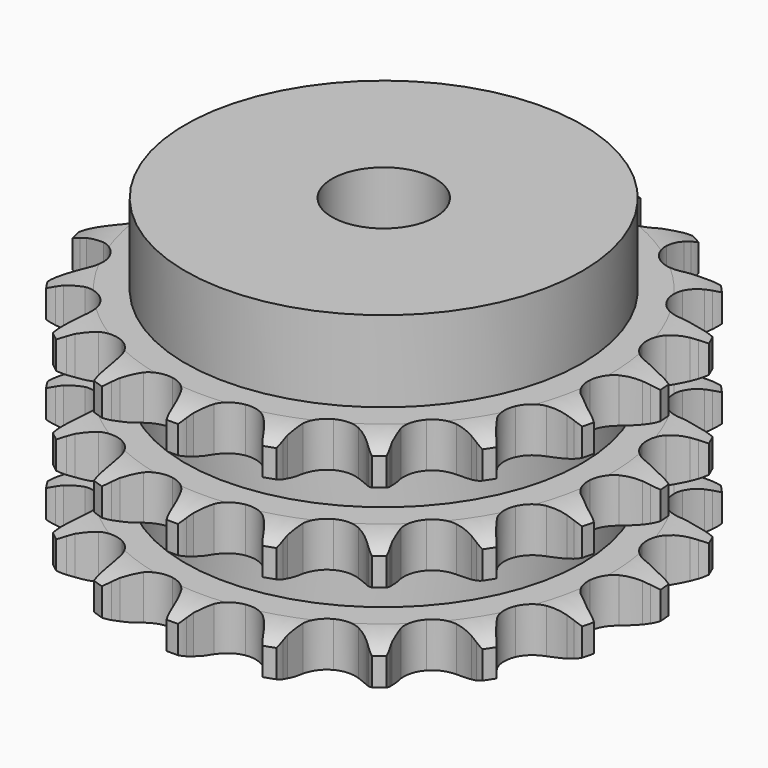
from build123d import *

# Parameters (mm, degrees)
PAD_DEPTH         = 25.6
SKETCH001_R       = 23
PAD001_DEPTH      = 35
SKETCH002_R       = 6
POCKET_DEPTH      = 0.001
POCKET_DEPTH_BACK = 35.001


with BuildPart() as part:
    # Sprocket → Pad (new body)
    with BuildSketch(Plane.XY):
        with BuildLine():
            ThreePointArc((-5.227902, 31.3291), (-4.494074, 30.495711), (-3.952481, 29.52632))
            Line((-3.952481, 29.52632), (-3.648014, 28.812689))
            ThreePointArc((-3.648014, 28.812689), (-3.155091, 27.839756), (-2.538979, 26.93977))
            ThreePointArc((-2.538979, 26.93977), (-1.411489, 26.030599), (0, 25.705755))
            ThreePointArc((0, 25.705755), (1.411489, 26.030599), (2.538979, 26.93977))
            ThreePointArc((2.538979, 26.93977), (3.155091, 27.839756), (3.648014, 28.812689))
            Line((3.648014, 28.812689), (3.952481, 29.52632))
            ThreePointArc((3.952481, 29.52632), (4.494074, 30.495711), (5.227902, 31.3291))
            ThreePointArc((5.227902, 31.3291), (5.651368, 30.302593), (5.848856, 29.209872))
            Line((5.848856, 29.209872), (5.90511, 28.436046))
            ThreePointArc((5.90511, 28.436046), (6.055414, 27.355778), (6.345919, 26.304504))
            ThreePointArc((6.345919, 26.304504), (7.117111, 25.078499), (8.346645, 24.312946))
            ThreePointArc((8.346645, 24.312946), (9.787132, 24.161879), (11.148739, 24.655694))
            Line((11.148739, 24.655694), (12.805819, 26.067029))
            ThreePointArc((12.805819, 26.067029), (13.058934, 26.361151), (13.325505, 26.643134))
            ThreePointArc((13.325505, 26.643134), (14.152514, 27.384146), (15.117182, 27.934106))
            ThreePointArc((15.117182, 27.934106), (15.184397, 26.825718), (15.016378, 25.72808))
            Line((15.016378, 25.72808), (14.818324, 24.977916))
            ThreePointArc((14.818324, 24.977916), (14.609722, 23.907377), (14.543138, 22.818737))
            ThreePointArc((14.543138, 22.818737), (14.874461, 21.408755), (15.788801, 20.285452))
            ThreePointArc((15.788801, 20.285452), (17.102188, 19.674845), (18.55036, 19.699791))
            Line((18.55036, 19.699791), (20.575915, 20.496603))
            ThreePointArc((20.575915, 20.496603), (20.910817, 20.692602), (21.254504, 20.872751))
            ThreePointArc((21.254504, 20.872751), (22.277309, 21.305083), (23.368281, 21.512018))
            ThreePointArc((23.368281, 21.512018), (23.071961, 20.441861), (22.556643, 19.458251))
            Line((22.556643, 19.458251), (22.125743, 18.813042))
            ThreePointArc((22.125743, 18.813042), (21.580839, 17.86824), (21.164382, 16.860206))
            ThreePointArc((21.164382, 16.860206), (21.019933, 15.419039), (21.519996, 14.059715))
            ThreePointArc((21.519996, 14.059715), (22.563956, 13.055737), (23.941762, 12.609109))
            Line((23.941762, 12.609109), (26.116291, 12.705052))
            ThreePointArc((26.116291, 12.705052), (26.496688, 12.781689), (26.880248, 12.840482))
            ThreePointArc((26.880248, 12.840482), (27.988012, 12.917285), (29.087064, 12.758769))
            ThreePointArc((29.087064, 12.758769), (28.45932, 11.842811), (27.652546, 11.079819))
            Line((27.652546, 11.079819), (27.035494, 10.609482))
            ThreePointArc((27.035494, 10.609482), (26.213338, 9.892802), (25.492138, 9.074609))
            ThreePointArc((25.492138, 9.074609), (24.887569, 7.758432), (24.919166, 6.31039))
            ThreePointArc((24.919166, 6.31039), (25.580569, 5.021836), (26.738703, 4.152036))
            Line((26.738703, 4.152036), (28.826562, 3.536711))
            ThreePointArc((28.826562, 3.536711), (29.211232, 3.485681), (29.5931, 3.416747))
            ThreePointArc((29.5931, 3.416747), (30.66578, 3.129698), (31.653812, 2.62291))
            ThreePointArc((31.653812, 2.62291), (30.76267, 1.960409), (29.751866, 1.500717))
            Line((29.751866, 1.500717), (29.015529, 1.256221))
            ThreePointArc((29.015529, 1.256221), (28.005215, 0.845326), (27.057424, 0.305639))
            ThreePointArc((27.057424, 0.305639), (26.058251, -0.742922), (25.617957, -2.122764))
            ThreePointArc((25.617957, -2.122764), (25.825131, -3.556258), (26.63809, -4.754976))
            Line((26.63809, -4.754976), (28.413028, -6.014887))
            ThreePointArc((28.413028, -6.014887), (28.760286, -6.188054), (29.09908, -6.377246))
            ThreePointArc((29.09908, -6.377246), (30.020435, -6.99704), (30.790378, -7.797183))
            ThreePointArc((30.790378, -7.797183), (29.732408, -8.134434), (28.62711, -8.241011))
            Line((28.62711, -8.241011), (27.851282, -8.233171))
            ThreePointArc((27.851282, -8.233171), (26.762292, -8.293754), (25.690619, -8.496453))
            ThreePointArc((25.690619, -8.496453), (24.405117, -9.163768), (23.540645, -10.325884))
            ThreePointArc((23.540645, -10.325884), (23.271139, -11.748977), (23.650826, -13.146712))
            Line((23.650826, -13.146712), (24.920501, -14.914679))
            ThreePointArc((24.920501, -14.914679), (25.192716, -15.191218), (25.451723, -15.480165))
            ThreePointArc((25.451723, -15.480165), (26.12191, -16.365541), (26.59033, -17.372329))
            ThreePointArc((26.59033, -17.372329), (25.480177, -17.347785), (24.400163, -17.089698))
            Line((24.400163, -17.089698), (23.668916, -16.830372))
            ThreePointArc((23.668916, -16.830372), (22.619259, -16.534078), (21.539837, -16.377822))
            ThreePointArc((21.539837, -16.377822), (20.10731, -16.591578), (18.912338, -17.410034))
            ThreePointArc((18.912338, -17.410034), (18.195358, -18.668511), (18.100629, -20.113797))
            Line((18.100629, -20.113797), (18.727451, -22.198234))
            ThreePointArc((18.727451, -22.198234), (18.895125, -22.548177), (19.046277, -22.905568))
            ThreePointArc((19.046277, -22.905568), (19.39267, -23.960581), (19.508806, -25.064915))
            ThreePointArc((19.508806, -25.064915), (18.466774, -24.681234), (17.529079, -24.086451))
            Line((17.529079, -24.086451), (16.921656, -23.603741))
            ThreePointArc((16.921656, -23.603741), (16.025079, -22.982678), (15.054879, -22.4844))
            ThreePointArc((15.054879, -22.4844), (13.630563, -22.221434), (12.234587, -22.607537))
            ThreePointArc((12.234587, -22.607537), (11.147828, -23.565023), (10.588948, -24.901241))
            Line((10.588948, -24.901241), (10.504992, -27.076266))
            ThreePointArc((10.504992, -27.076266), (10.549954, -27.461692), (10.576872, -27.848797))
            ThreePointArc((10.576872, -27.848797), (10.561934, -28.95912), (10.313201, -30.041327))
            ThreePointArc((10.313201, -30.041327), (9.45221, -29.340089), (8.758447, -28.473063))
            Line((8.758447, -28.473063), (8.340672, -27.819278))
            ThreePointArc((8.340672, -27.819278), (7.694333, -26.940747), (6.938491, -26.154444))
            ThreePointArc((6.938491, -26.154444), (5.676734, -25.443252), (4.231028, -25.355162))
            ThreePointArc((4.231028, -25.355162), (2.892257, -25.907899), (1.92979, -26.990249))
            Line((1.92979, -26.990249), (1.144153, -29.020164))
            ThreePointArc((1.144153, -29.020164), (1.061531, -29.399306), (0.961298, -29.774177))
            ThreePointArc((0.961298, -29.774177), (0.586648, -30.819489), (0, -31.762296))
            ThreePointArc((0, -31.762296), (-0.586648, -30.819489), (-0.961298, -29.774177))
            Line((-0.961298, -29.774177), (-1.144153, -29.020164))
            ThreePointArc((-1.144153, -29.020164), (-1.470213, -27.979369), (-1.92979, -26.990249))
            ThreePointArc((-1.92979, -26.990249), (-2.892257, -25.907899), (-4.231028, -25.355162))
            ThreePointArc((-4.231028, -25.355162), (-5.676734, -25.443252), (-6.938491, -26.154444))
            Line((-6.938491, -26.154444), (-8.340672, -27.819278))
            ThreePointArc((-8.340672, -27.819278), (-8.541924, -28.151049), (-8.758447, -28.473063))
            ThreePointArc((-8.758447, -28.473063), (-9.45221, -29.340089), (-10.313201, -30.041327))
            ThreePointArc((-10.313201, -30.041327), (-10.561934, -28.95912), (-10.576872, -27.848797))
            Line((-10.576872, -27.848797), (-10.504992, -27.076266))
            ThreePointArc((-10.504992, -27.076266), (-10.47544, -25.985992), (-10.588948, -24.901241))
            ThreePointArc((-10.588948, -24.901241), (-11.147828, -23.565023), (-12.234587, -22.607537))
            ThreePointArc((-12.234587, -22.607537), (-13.630563, -22.221434), (-15.054879, -22.4844))
            Line((-15.054879, -22.4844), (-16.921656, -23.603741))
            ThreePointArc((-16.921656, -23.603741), (-17.21973, -23.852189), (-17.529079, -24.086451))
            ThreePointArc((-17.529079, -24.086451), (-18.466774, -24.681234), (-19.508806, -25.064915))
            ThreePointArc((-19.508806, -25.064915), (-19.39267, -23.960581), (-19.046277, -22.905568))
            Line((-19.046277, -22.905568), (-18.727451, -22.198234))
            ThreePointArc((-18.727451, -22.198234), (-18.345489, -21.17663), (-18.100629, -20.113797))
            ThreePointArc((-18.100629, -20.113797), (-18.195358, -18.668511), (-18.912338, -17.410034))
            ThreePointArc((-18.912338, -17.410034), (-20.10731, -16.591578), (-21.539837, -16.377822))
            Line((-21.539837, -16.377822), (-23.668916, -16.830372))
            ThreePointArc((-23.668916, -16.830372), (-24.031511, -16.968575), (-24.400163, -17.089698))
            ThreePointArc((-24.400163, -17.089698), (-25.480177, -17.347785), (-26.59033, -17.372329))
            ThreePointArc((-26.59033, -17.372329), (-26.12191, -16.365541), (-25.451723, -15.480165))
            Line((-25.451723, -15.480165), (-24.920501, -14.914679))
            ThreePointArc((-24.920501, -14.914679), (-24.227521, -14.072451), (-23.650826, -13.146712))
            ThreePointArc((-23.650826, -13.146712), (-23.271139, -11.748977), (-23.540645, -10.325884))
            ThreePointArc((-23.540645, -10.325884), (-24.405117, -9.163768), (-25.690619, -8.496453))
            Line((-25.690619, -8.496453), (-27.851282, -8.233171))
            ThreePointArc((-27.851282, -8.233171), (-28.239105, -8.246152), (-28.62711, -8.241011))
            ThreePointArc((-28.62711, -8.241011), (-29.732408, -8.134434), (-30.790378, -7.797183))
            ThreePointArc((-30.790378, -7.797183), (-30.020435, -6.99704), (-29.09908, -6.377246))
            Line((-29.09908, -6.377246), (-28.413028, -6.014887))
            ThreePointArc((-28.413028, -6.014887), (-27.484124, -5.443304), (-26.63809, -4.754976))
            ThreePointArc((-26.63809, -4.754976), (-25.825131, -3.556258), (-25.617957, -2.122764))
            ThreePointArc((-25.617957, -2.122764), (-26.058251, -0.742922), (-27.057424, 0.305639))
            Line((-27.057424, 0.305639), (-29.015529, 1.256221))
            ThreePointArc((-29.015529, 1.256221), (-29.386553, 1.36987), (-29.751866, 1.500717))
            ThreePointArc((-29.751866, 1.500717), (-30.76267, 1.960409), (-31.653812, 2.62291))
            ThreePointArc((-31.653812, 2.62291), (-30.66578, 3.129698), (-29.5931, 3.416747))
            Line((-29.5931, 3.416747), (-28.826562, 3.536711))
            ThreePointArc((-28.826562, 3.536711), (-27.762396, 3.77571), (-26.738703, 4.152036))
            ThreePointArc((-26.738703, 4.152036), (-25.580569, 5.021836), (-24.919166, 6.31039))
            ThreePointArc((-24.919166, 6.31039), (-24.887569, 7.758432), (-25.492138, 9.074609))
            Line((-25.492138, 9.074609), (-27.035494, 10.609482))
            ThreePointArc((-27.035494, 10.609482), (-27.349513, 10.837445), (-27.652546, 11.079819))
            ThreePointArc((-27.652546, 11.079819), (-28.45932, 11.842811), (-29.087064, 12.758769))
            ThreePointArc((-29.087064, 12.758769), (-27.988012, 12.917285), (-26.880248, 12.840482))
            Line((-26.880248, 12.840482), (-26.116291, 12.705052))
            ThreePointArc((-26.116291, 12.705052), (-25.032182, 12.585567), (-23.941762, 12.609109))
            ThreePointArc((-23.941762, 12.609109), (-22.563956, 13.055737), (-21.519996, 14.059715))
            ThreePointArc((-21.519996, 14.059715), (-21.019933, 15.419039), (-21.164382, 16.860206))
            Line((-21.164382, 16.860206), (-22.125743, 18.813042))
            ThreePointArc((-22.125743, 18.813042), (-22.348728, 19.130614), (-22.556643, 19.458251))
            ThreePointArc((-22.556643, 19.458251), (-23.071961, 20.441861), (-23.368281, 21.512018))
            ThreePointArc((-23.368281, 21.512018), (-22.277309, 21.305083), (-21.254504, 20.872751))
            Line((-21.254504, 20.872751), (-20.575915, 20.496603))
            ThreePointArc((-20.575915, 20.496603), (-19.589342, 20.031582), (-18.55036, 19.699791))
            ThreePointArc((-18.55036, 19.699791), (-17.102188, 19.674845), (-15.788801, 20.285452))
            ThreePointArc((-15.788801, 20.285452), (-14.874461, 21.408755), (-14.543138, 22.818737))
            Line((-14.543138, 22.818737), (-14.818324, 24.977916))
            ThreePointArc((-14.818324, 24.977916), (-14.926112, 25.350685), (-15.016378, 25.72808))
            ThreePointArc((-15.016378, 25.72808), (-15.184397, 26.825718), (-15.117182, 27.934106))
            ThreePointArc((-15.117182, 27.934106), (-14.152514, 27.384146), (-13.325505, 26.643134))
            Line((-13.325505, 26.643134), (-12.805819, 26.067029))
            ThreePointArc((-12.805819, 26.067029), (-12.023694, 25.306865), (-11.148739, 24.655694))
            ThreePointArc((-11.148739, 24.655694), (-9.787132, 24.161879), (-8.346645, 24.312946))
            ThreePointArc((-8.346645, 24.312946), (-7.117111, 25.078499), (-6.345919, 26.304504))
            Line((-6.345919, 26.304504), (-5.90511, 28.436046))
            ThreePointArc((-5.90511, 28.436046), (-5.88602, 28.823616), (-5.848856, 29.209872))
            ThreePointArc((-5.848856, 29.209872), (-5.651368, 30.302593), (-5.227902, 31.3291))
        make_face()
    extrude(amount=PAD_DEPTH)

    # Sketch → Groove (revolve, cut)
    with BuildSketch(Plane.XZ):
        with BuildLine():
            ThreePointArc((26.291101, 0), (28.527169, 0.253206), (30.65, 1))
            Line((30.65, 1), (30.65, 4.2))
            ThreePointArc((30.65, 4.2), (28.527169, 4.946794), (26.291101, 5.2))
            Line((23, 5.2), (26.291101, 5.2))
            Line((23, 5.2), (23, 10.2))
            Line((23, 10.2), (26.291101, 10.2))
            ThreePointArc((26.291101, 10.2), (28.527169, 10.453206), (30.65, 11.2))
            Line((30.65, 14.4), (30.65, 11.2))
            ThreePointArc((30.65, 14.4), (28.527169, 15.146794), (26.291101, 15.4))
            Line((23, 15.4), (26.291101, 15.4))
            Line((23, 20.4), (23, 15.4))
            Line((26.291101, 20.4), (23, 20.4))
            ThreePointArc((26.291101, 20.4), (28.527169, 20.653206), (30.65, 21.4))
            Line((30.65, 21.4), (30.65, 24.6))
            ThreePointArc((30.65, 24.6), (28.527169, 25.346794), (26.291101, 25.6))
            Line((26.291101, 25.6), (40.65, 25.6))
            Line((40.65, 25.6), (40.65, 0))
            Line((26.291101, 0), (40.65, 0))
        make_face()
    revolve(axis=Axis((0, 0, 0), (0, 0, 1)), mode=Mode.SUBTRACT)

    # Sketch001 → Pad001 (join)
    with BuildSketch(Plane.XY):
        Circle(SKETCH001_R)
    extrude(amount=PAD001_DEPTH)

    # Sketch002 → Pocket (cut, two sides)
    with BuildSketch(Plane.XY) as pocket_sk:
        Circle(SKETCH002_R)
    extrude(amount=-POCKET_DEPTH, mode=Mode.SUBTRACT)
    extrude(pocket_sk.sketch, amount=POCKET_DEPTH_BACK, mode=Mode.SUBTRACT)


solid = part.part
